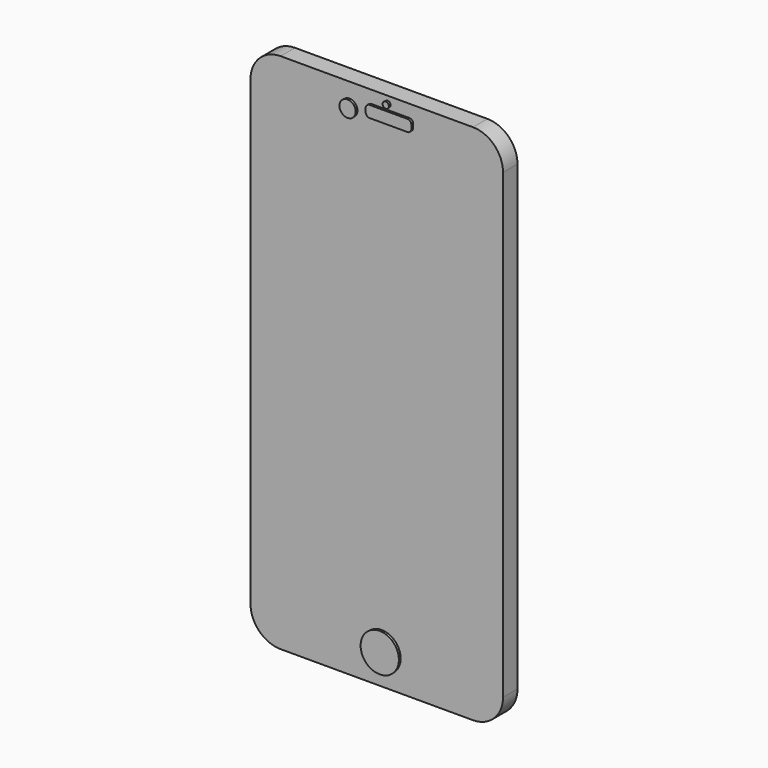
from build123d import *

# Parameters (mm, degrees)
F1_DEPTH      = 3.81
F2_R          = 1.4863157011
F3_DEPTH      = 4.318
F3_TAPER      = -3
F2_R_2        = 0.429331494
F2_R_3        = 3.81
F5_DEPTH      = 1.27
F5_TAPER      = -3
F5_DEPTH_BACK = 0.508


with BuildPart() as f1:
    # F0 (on Front) → F1 (new body)
    with BuildSketch(Plane.XZ):
        with BuildLine():
            Line((13.9290312469, 57.2319371462), (-22.5937100291, 57.2319371462))
            ThreePointArc((-22.5937100291, 57.2319371462), (-27.0838380897, 55.3720652067), (-28.9437100291, 50.8819371462))
            Line((-28.9437100291, 50.8819371462), (-28.9437100291, -46.5598398983))
            ThreePointArc((-28.9437100291, -46.5598398983), (-27.0838380897, -51.0499679589), (-22.5937100291, -52.9098398983))
            Line((-22.5937100291, -52.9098398983), (17.9848404765, -52.9098398983))
            ThreePointArc((17.9848404765, -52.9098398983), (22.474968537, -51.0499679589), (24.3348404765, -46.5598398983))
            Line((24.3348404765, -46.5598398983), (24.3348404765, 50.8819371462))
            ThreePointArc((24.3348404765, 50.8819371462), (22.474968537, 55.3720652067), (17.9848404765, 57.2319371462))
            Line((17.9848404765, 57.2319371462), (16.8787086546, 57.2319371462))
            Line((16.8787086546, 57.2319371462), (13.9290312469, 57.2319371462))
        make_face()
    extrude(amount=F1_DEPTH)


with BuildPart() as f3:
    # F2 (on Front) → F3 (new body)
    with BuildSketch(Plane.XZ):
        with Locations((-8.0643091105, 52.4040772826)):
            Circle(F2_R)
    extrude(amount=F3_DEPTH, taper=F3_TAPER)


with BuildPart() as f3b:
    # F2 (on Front) → F3, piece 2 (new body)
    with BuildSketch(Plane.XZ):
        with BuildLine():
            Line((4.5818735962, 54.3846786022), (-3.424302442, 54.3846786022))
            ThreePointArc((-3.424302442, 54.3846786022), (-3.8373942236, 54.2135703838), (-4.008502442, 53.8004786022))
            Line((-4.008502442, 53.8004786022), (-4.008502442, 52.9882772826))
            ThreePointArc((-4.008502442, 52.9882772826), (-3.8373942236, 52.575185501), (-3.424302442, 52.4040772826))
            Line((-3.424302442, 52.4040772826), (4.5777363949, 52.4040772826))
            ThreePointArc((4.5777363949, 52.4040772826), (4.9908281764, 52.575185501), (5.1619363949, 52.9882772826))
            Line((5.1619363949, 52.9882772826), (5.1619363949, 53.8046158035))
            ThreePointArc((5.1619363949, 53.8046158035), (4.9920399346, 54.214782142), (4.5818735962, 54.3846786022))
        make_face()
    extrude(amount=F3_DEPTH, taper=F3_TAPER)


with BuildPart() as f3c:
    # F2 (on Front) → F3, piece 3 (new body)
    with BuildSketch(Plane.XZ):
        with Locations((0, 55.6826740503)):
            Circle(F2_R_2)
    extrude(amount=F3_DEPTH, taper=F3_TAPER)


with BuildPart() as f3d:
    # F2 (on Front) → F3, piece 4 (new body)
    with BuildSketch(Plane.XZ):
        with Locations((-1.2717708014, -46.4188568294)):
            Circle(F2_R_3)
    extrude(amount=F3_DEPTH, taper=F3_TAPER)


with BuildPart() as f5:
    # F4 (on Front) → F5 (new body, two sides)
    with BuildSketch(Plane.XZ) as f5_sk:
        with BuildLine():
            Line((10.3033875269, 51.6193546355), (17.1654837984, 51.6193546355))
            ThreePointArc((17.1654837984, 51.6193546355), (18.0635094105, 51.9913290234), (18.4354837984, 52.8893546355))
            Line((18.4354837984, 52.8893546355), (18.4354837984, 54.6837463758))
            ThreePointArc((18.4354837984, 54.6837463758), (18.0635094105, 55.5817719879), (17.1654837984, 55.9537463758))
            Line((17.1654837984, 55.9537463758), (10.3033875269, 55.9537463758))
            ThreePointArc((10.3033875269, 55.9537463758), (9.4053619148, 55.5817719879), (9.0333875269, 54.6837463758))
            Line((9.0333875269, 54.6837463758), (9.0333875269, 52.8893546355))
            ThreePointArc((9.0333875269, 52.8893546355), (9.4053619148, 51.9913290234), (10.3033875269, 51.6193546355))
        make_face()
    extrude(amount=F5_DEPTH, taper=F5_TAPER)
    extrude(f5_sk.sketch, amount=-F5_DEPTH_BACK)


solid = Compound([f1.part, f3.part, f3b.part, f3c.part, f3d.part, f5.part])
